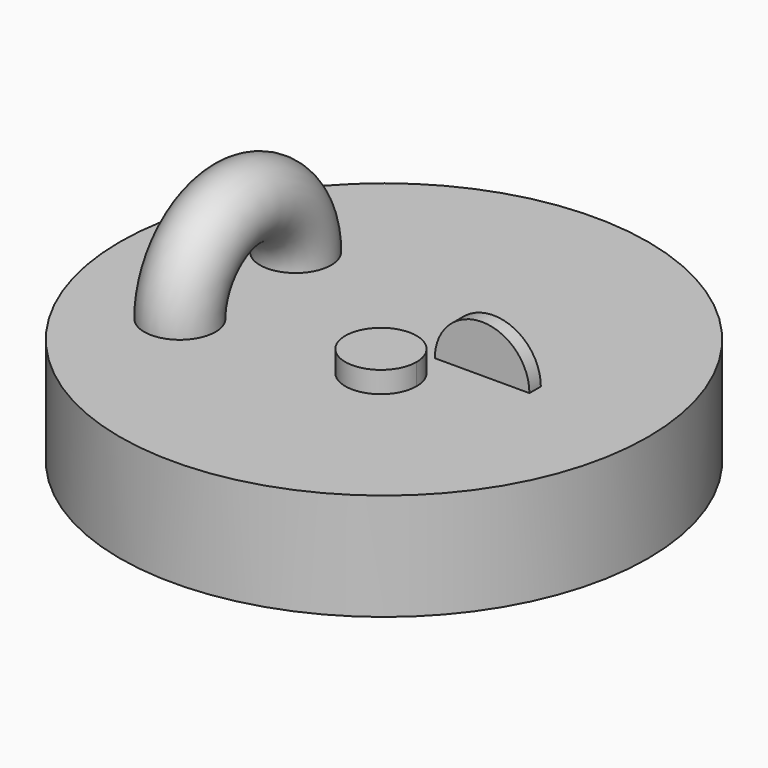
from build123d import *

# Parameters (mm, degrees)
F0_R     = 5
F3_DEPTH = 3
F5_R     = 6.6420227727
F6_DEPTH = 2
F4_R     = 37.0687121763
F7_DEPTH = 15


with BuildPart() as f1:
    # F0 (on Front) → F1 (revolve)
    with BuildSketch(Plane.XZ):
        with Locations((-20.5318288077, 10.1641240577)):
            Circle(F0_R)
    revolve(axis=Axis((-18.9214901471, 0, 0), (1, 0, 0)))


with BuildPart() as f3:
    # F2 (on Top) → F3 (new body)
    with BuildSketch(Plane.XY):
        with BuildLine():
            ThreePointArc((4.7830105194, -1.4569867436), (1.7797639387, -2.4255630386), (-0.0453284697, -4.9997945288))
            ThreePointArc((-0.0453284697, -4.9997945288), (2.9579181111, -4.0312182338), (4.7830105194, -1.4569867436))
        make_face()
        with BuildLine():
            ThreePointArc((4.7830105194, -1.4569867436), (2.9579181111, -4.0312182338), (-0.0453284697, -4.9997945288))
            ThreePointArc((-0.0453284697, -4.9997945288), (4.0011539095, -11.4022363877), (9.7376820497, -6.4567812723))
            ThreePointArc((9.7376820497, -6.4567812723), (8.2892058318, -2.9373098879), (4.7830105194, -1.4569867436))
        make_face()
    extrude(amount=F3_DEPTH)


with BuildPart() as f6:
    # F5 (on Front) → F6 (new body)
    with BuildSketch(Plane.XZ):
        with Locations((13.768658042, 0)):
            Circle(F5_R)
    extrude(amount=-F6_DEPTH)


with BuildPart() as f7:
    # F4 (on Top) → F7 (new body)
    with BuildSketch(Plane.XY):
        Circle(F4_R)
    extrude(amount=-F7_DEPTH)


solid = Compound([f1.part, f3.part, f6.part, f7.part])
